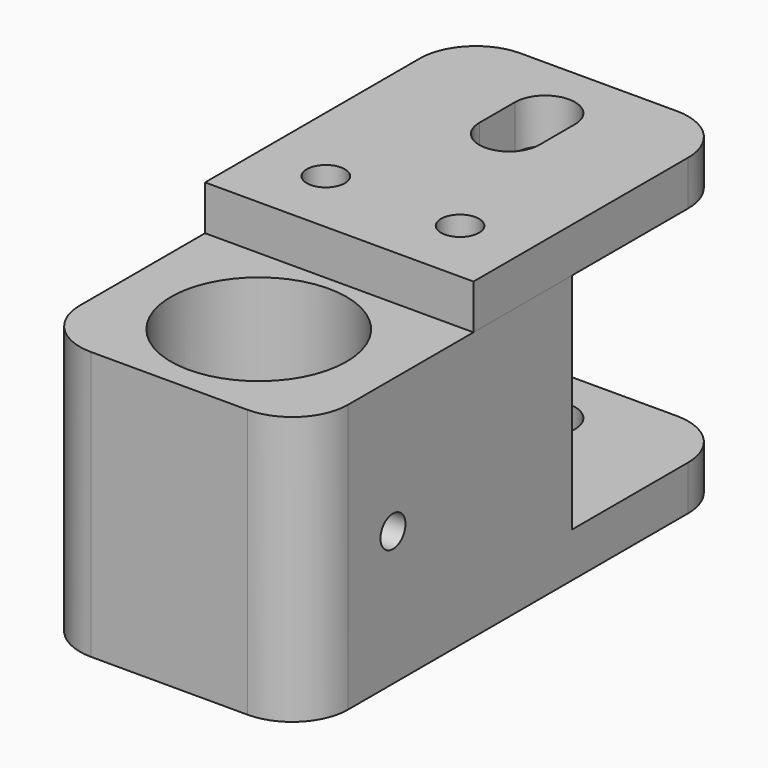
from build123d import *

# Parameters (mm, degrees)
SKETCH_W        = 24
SKETCH_H        = 30
SKETCH_R        = 7.85
PAD_DEPTH       = 24
SKETCH001_W     = 24
SKETCH001_H     = 4
PAD001_DEPTH    = 18
FILLET_R        = 5
SKETCH002_R     = 1.4
POCKET_DEPTH    = 10
POCKET001_DEPTH = 5
SKETCH004_R     = 1.4
POCKET002_DEPTH = 24.001
BOX_W           = 24
BOX_H           = 29
BOX_DEPTH       = 4
POCKET003_DEPTH = 5
SKETCH006_R     = 1.7
POCKET004_DEPTH = 5
FILLET001_R     = 5


with BuildPart() as pocket002:
    # Sketch → Pad (new body)
    with BuildSketch(Plane.XY):
        with Locations((12, 15)):
            Rectangle(SKETCH_W, SKETCH_H)
        with Locations((12, 10)):
            Circle(SKETCH_R, mode=Mode.SUBTRACT)
    extrude(amount=PAD_DEPTH)

    # Sketch001 → Pad001 (new body)
    with BuildSketch(Plane(origin=(0, 30, 0), x_dir=(-1, 0, 0), z_dir=(0, 1, 0))):
        with Locations((-12, 2)):
            Rectangle(SKETCH001_W, SKETCH001_H)
    extrude(amount=PAD001_DEPTH)

    # Fillet
    fillet_edges = [pocket002.edges().sort_by_distance(p)[0] for p in [
        (24, 48, 2),
        (24, 0, 12),
        (0, 0, 12),
        (0, 48, 2),
    ]]
    fillet(fillet_edges, radius=FILLET_R)

    # Sketch002 → Pocket (cut)
    with BuildSketch(Plane.XY.offset(24)):
        with Locations((6, 25)):
            Circle(SKETCH002_R)
        with Locations((18, 25)):
            Circle(SKETCH002_R)
    extrude(amount=-POCKET_DEPTH, mode=Mode.SUBTRACT)

    # Sketch003 → Pocket001 (cut)
    with BuildSketch(Plane.XY.offset(4)):
        with BuildLine():
            ThreePointArc((14.68, 42), (12, 44.68), (9.32, 42))
            Line((9.32, 42), (9.32, 38))
            ThreePointArc((9.32, 38), (12, 35.32), (14.68, 38))
            Line((14.68, 42), (14.68, 38))
        make_face()
    extrude(amount=-POCKET001_DEPTH, mode=Mode.SUBTRACT)

    # Sketch004 → Pocket002 (cut, through all)
    with BuildSketch(Plane.YZ.offset(24)):
        with Locations((10, 12)):
            Circle(SKETCH004_R)
    extrude(amount=-POCKET002_DEPTH, mode=Mode.SUBTRACT)


with BuildPart() as fillet001:
    # Box → Box (new body)
    with BuildSketch(Plane(origin=(0, 19, 24), x_dir=(1, 0, 0), z_dir=(0, 0, 1))):
        with Locations((12, 14.5)):
            Rectangle(BOX_W, BOX_H)
    extrude(amount=BOX_DEPTH)

    # Sketch005 → Pocket003 (cut)
    with BuildSketch(Plane(origin=(0, 19, 28), x_dir=(1, 0, 0), z_dir=(0, 0, 1))):
        with BuildLine():
            ThreePointArc((14.68, 23), (12, 25.68), (9.32, 23))
            Line((9.32, 23), (9.32, 19))
            ThreePointArc((9.32, 19), (12, 16.32), (14.68, 19))
            Line((14.68, 23), (14.68, 19))
        make_face()
    extrude(amount=-POCKET003_DEPTH, mode=Mode.SUBTRACT)

    # Sketch006 → Pocket004 (cut)
    with BuildSketch(Plane(origin=(0, 19, 28), x_dir=(1, 0, 0), z_dir=(0, 0, 1))):
        with Locations((6, 6)):
            Circle(SKETCH006_R)
        with Locations((18, 6)):
            Circle(SKETCH006_R)
    extrude(amount=-POCKET004_DEPTH, mode=Mode.SUBTRACT)

    # Fillet001
    fillet001_edges = [fillet001.edges().sort_by_distance(p)[0] for p in [
        (24, 48, 26),
        (0, 48, 26),
    ]]
    fillet(fillet001_edges, radius=FILLET001_R)


solid = Compound([pocket002.part, fillet001.part])
